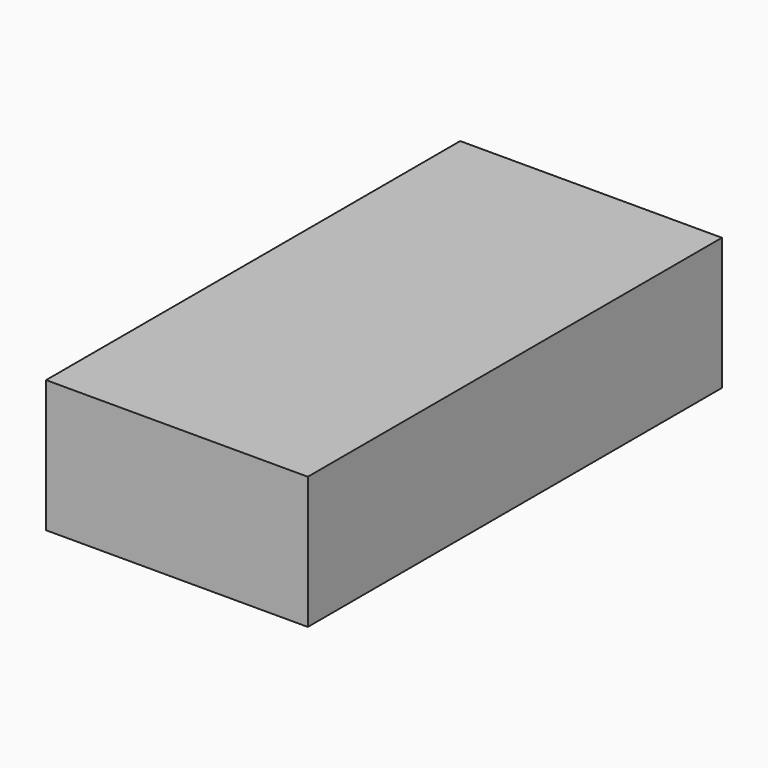
from build123d import *

# Parameters (mm, degrees)
F0_W     = 917.575
F0_H     = 1498.6
F1_DEPTH = 463.55
F2_DEPTH = 474.98
F3_DEPTH = 158.9405


with BuildPart() as f1:
    # F0 (on Top) → F1 (new body)
    with BuildSketch(Plane.XY):
        with Locations((458.7875, 749.3)):
            Rectangle(F0_W, F0_H)
    extrude(amount=F1_DEPTH)

    # F2 (add): a face of the model
    f2_faces = [f1.faces().sort_by_distance(p)[0] for p in [
        (458.7875, 0, 231.775),
    ]]
    extrude(f2_faces, amount=F2_DEPTH)

    # F3 (cut): a face of the model
    f3_faces = [f1.faces().sort_by_distance(p)[0] for p in [
        (458.7875, -474.98, 231.775),
    ]]
    extrude(f3_faces, amount=-F3_DEPTH, mode=Mode.SUBTRACT)


solid = f1.part
